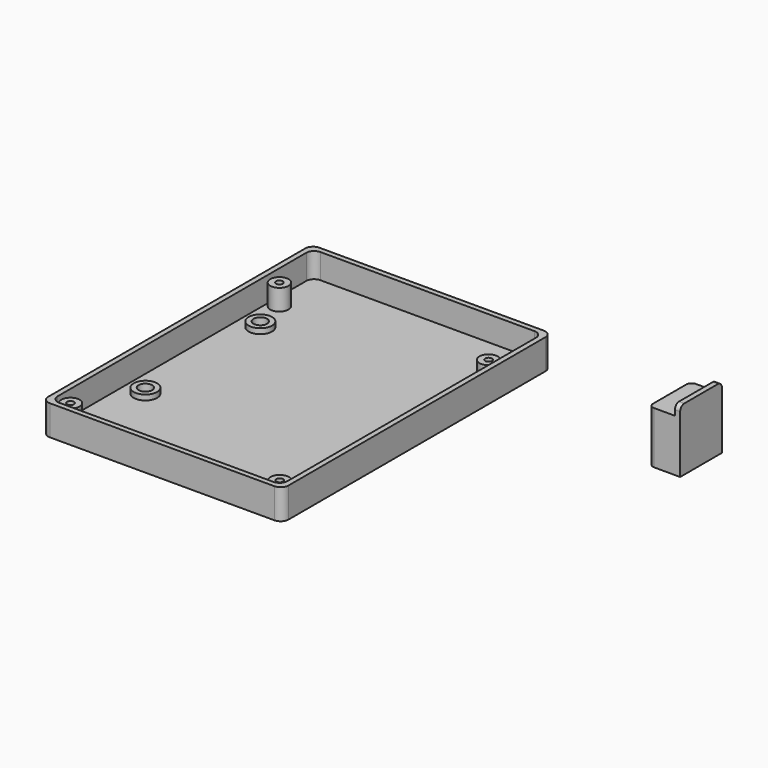
from build123d import *

# Parameters (mm, degrees)
F0_W     = 92
F0_H     = 129
F0_W_2   = 88
F0_H_2   = 125
F0_R     = 3.5
F0_R_2   = 4.5
F0_R_3   = 2.6
F0_R_4   = 1.3
F1_DEPTH = 2
F2_DEPTH = 9.5
F3_DEPTH = 2
F4_DEPTH = 8
F5_R     = 3
F6_W     = 12
F6_H     = 20
F7_DEPTH = 24
F8_W     = 10
F8_H     = 20
F9_DEPTH = 4
F10_R    = 2


with BuildPart() as f1:
    # F0 (on Top) → F1 (new body)
    with BuildSketch(Plane.XY):
        with Locations((-56.2989712238, 3.9247941673)):
            Rectangle(F0_W, F0_H)
        with Locations((-56.2989712238, 3.9247941673)):
            Rectangle(F0_W_2, F0_H_2, mode=Mode.SUBTRACT)
        with Locations((-56.2989712238, 3.9247941673)):
            Rectangle(F0_W_2, F0_H_2)
        with Locations((-96.3489712238, -54.3752058327)):
            Circle(F0_R, mode=Mode.SUBTRACT)
        with Locations((-92.2989712238, -23.5752058327)):
            Circle(F0_R_2, mode=Mode.SUBTRACT)
        with Locations((-16.2489712238, -54.3752058327)):
            Circle(F0_R, mode=Mode.SUBTRACT)
        with Locations((-92.2989712238, 31.4247941673)):
            Circle(F0_R_2, mode=Mode.SUBTRACT)
        with Locations((-96.3489712238, 45.6247941673)):
            Circle(F0_R, mode=Mode.SUBTRACT)
        with Locations((-16.2489712238, 45.6247941673)):
            Circle(F0_R, mode=Mode.SUBTRACT)
        with Locations((-92.2989712238, 31.4247941673)):
            Circle(F0_R_2)
        with Locations((-92.2989712238, 31.4247941673)):
            Circle(F0_R_3, mode=Mode.SUBTRACT)
        with Locations((-92.2989712238, -23.5752058327)):
            Circle(F0_R_2)
        with Locations((-92.2989712238, -23.5752058327)):
            Circle(F0_R_3, mode=Mode.SUBTRACT)
        with Locations((-96.3489712238, 45.6247941673)):
            Circle(F0_R)
        with Locations((-96.3489712238, 45.6247941673)):
            Circle(F0_R_4, mode=Mode.SUBTRACT)
        with Locations((-96.3489712238, -54.3752058327)):
            Circle(F0_R)
        with Locations((-96.3489712238, -54.3752058327)):
            Circle(F0_R_4, mode=Mode.SUBTRACT)
        with Locations((-16.2489712238, -54.3752058327)):
            Circle(F0_R)
        with Locations((-16.2489712238, -54.3752058327)):
            Circle(F0_R_4, mode=Mode.SUBTRACT)
        with Locations((-16.2489712238, 45.6247941673)):
            Circle(F0_R)
        with Locations((-16.2489712238, 45.6247941673)):
            Circle(F0_R_4, mode=Mode.SUBTRACT)
    extrude(amount=-F1_DEPTH)

    # F0 (on Top) → F2 (join)
    with BuildSketch(Plane.XY):
        with Locations((-56.2989712238, 3.9247941673)):
            Rectangle(F0_W, F0_H)
        with Locations((-56.2989712238, 3.9247941673)):
            Rectangle(F0_W_2, F0_H_2, mode=Mode.SUBTRACT)
    extrude(amount=F2_DEPTH)

    # F0 (on Top) → F3 (join)
    with BuildSketch(Plane.XY):
        with Locations((-92.2989712238, 31.4247941673)):
            Circle(F0_R_2)
        with Locations((-92.2989712238, 31.4247941673)):
            Circle(F0_R_3, mode=Mode.SUBTRACT)
        with Locations((-92.2989712238, -23.5752058327)):
            Circle(F0_R_2)
        with Locations((-92.2989712238, -23.5752058327)):
            Circle(F0_R_3, mode=Mode.SUBTRACT)
    extrude(amount=F3_DEPTH)

    # F0 (on Top) → F4 (join)
    with BuildSketch(Plane.XY):
        with Locations((-96.3489712238, 45.6247941673)):
            Circle(F0_R)
        with Locations((-96.3489712238, 45.6247941673)):
            Circle(F0_R_4, mode=Mode.SUBTRACT)
        with Locations((-96.3489712238, -54.3752058327)):
            Circle(F0_R)
        with Locations((-96.3489712238, -54.3752058327)):
            Circle(F0_R_4, mode=Mode.SUBTRACT)
        with Locations((-16.2489712238, 45.6247941673)):
            Circle(F0_R)
        with Locations((-16.2489712238, 45.6247941673)):
            Circle(F0_R_4, mode=Mode.SUBTRACT)
        with Locations((-16.2489712238, -54.3752058327)):
            Circle(F0_R)
        with Locations((-16.2489712238, -54.3752058327)):
            Circle(F0_R_4, mode=Mode.SUBTRACT)
    extrude(amount=F4_DEPTH)

    # F5
    f5_edges = [f1.edges().sort_by_distance(p)[0] for p in [
        (-100.298971, 66.424794, 4.75),
        (-12.298971, 66.424794, 4.75),
        (-100.298971, -58.575206, 4.75),
        (-12.298971, -58.575206, 4.75),
        (-10.298971, 68.424794, 3.75),
        (-102.298971, 68.424794, 3.75),
        (-10.298971, -60.575206, 3.75),
        (-102.298971, -60.575206, 3.75),
    ]]
    fillet(f5_edges, radius=F5_R)


with BuildPart() as f7:
    # F6 (on Top) → F7 (new body)
    with BuildSketch(Plane.XY):
        with Locations((60.3223639131, 44.1114662588)):
            Rectangle(F6_W, F6_H)
    extrude(amount=F7_DEPTH)

    # F8 (on face) → F9 (cut)
    with BuildSketch(Plane.XY.offset(24)):
        with Locations((59.3223639131, 44.1114662588)):
            Rectangle(F8_W, F8_H)
    extrude(amount=-F9_DEPTH, mode=Mode.SUBTRACT)

    # F10
    f10_edges = [f7.edges().sort_by_distance(p)[0] for p in [
        (65.322364, 34.111466, 24),
        (65.322364, 54.111466, 24),
        (54.322364, 34.111466, 10),
        (54.322364, 54.111466, 10),
    ]]
    fillet(f10_edges, radius=F10_R)


solid = Compound([f1.part, f7.part])
